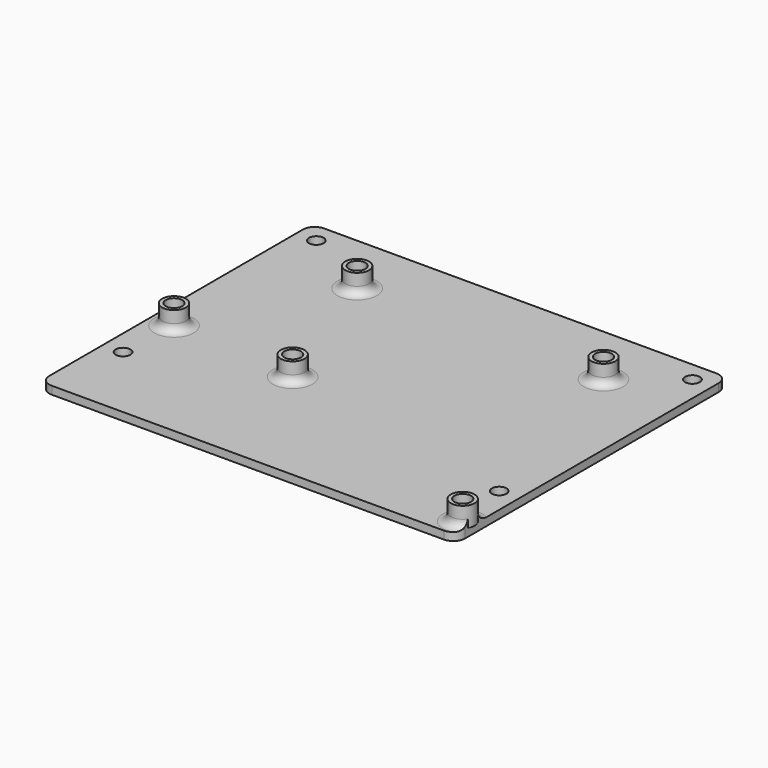
from build123d import *

# Parameters (mm, degrees)
SKETCH_W        = 105
SKETCH_H        = 86
SKETCH_R        = 1.85
PAD_DEPTH       = 2
SKETCH002_R     = 1.6
POCKET_DEPTH    = 5
SKETCH003_R     = 3
PAD001_DEPTH    = 5
SKETCH004_R     = 2.1
POCKET001_DEPTH = 5
FILLET_R        = 2
FILLET001_R     = 3


with BuildPart() as part:
    # Sketch → Pad (new body)
    with BuildSketch(Plane.XY):
        with Locations((52.5, -43)):
            Rectangle(SKETCH_W, SKETCH_H)
        with Locations((100, -5)):
            Circle(SKETCH_R, mode=Mode.SUBTRACT)
        with Locations((5, -5)):
            Circle(SKETCH_R, mode=Mode.SUBTRACT)
        with Locations((5, -66)):
            Circle(SKETCH_R, mode=Mode.SUBTRACT)
        with Locations((100, -66)):
            Circle(SKETCH_R, mode=Mode.SUBTRACT)
    extrude(amount=PAD_DEPTH)

    # Sketch002 (on Face10 of Pad) → Pocket (cut)
    with BuildSketch(Plane.XY.offset(2)):
        with Locations((24.04067, -15.902179)):
            Circle(SKETCH002_R)
        with Locations((86.248482, -15.904631)):
            Circle(SKETCH002_R)
        with Locations((37.731285, -53.383301)):
            Circle(SKETCH002_R)
        with Locations((5.794, -50.898735)):
            Circle(SKETCH002_R)
        with Locations((102.450577, -80.591911)):
            Circle(SKETCH002_R)
    extrude(amount=-POCKET_DEPTH, mode=Mode.SUBTRACT)

    # Sketch003 (on Face5 of Pocket) → Pad001 (join)
    with BuildSketch(Plane.XY.offset(2)):
        with Locations((86.248482, -15.904631)):
            Circle(SKETCH003_R)
        with Locations((24.04067, -15.902179)):
            Circle(SKETCH003_R)
        with Locations((37.731285, -53.383301)):
            Circle(SKETCH003_R)
        with Locations((5.794, -50.898735)):
            Circle(SKETCH003_R)
        with Locations((102.450577, -80.591911)):
            Circle(SKETCH003_R)
    extrude(amount=PAD001_DEPTH)

    # Sketch004 (on Face27 of Pad001) → Pocket001 (cut)
    with BuildSketch(Plane.XY.offset(7)):
        with Locations((86.248482, -15.904631)):
            Circle(SKETCH004_R)
        with Locations((24.04067, -15.902179)):
            Circle(SKETCH004_R)
        with Locations((37.731285, -53.383301)):
            Circle(SKETCH004_R)
        with Locations((5.794, -50.898735)):
            Circle(SKETCH004_R)
        with Locations((102.450577, -80.591911)):
            Circle(SKETCH004_R)
    extrude(amount=-POCKET001_DEPTH, mode=Mode.SUBTRACT)

    # Fillet
    fillet_edges = [part.edges().sort_by_distance(p)[0] for p in [
        (99.450577, -80.591911, 2),
        (34.731285, -53.383301, 2),
        (2.794, -50.898735, 2),
        (21.04067, -15.902179, 2),
        (83.248482, -15.904631, 2),
    ]]
    fillet(fillet_edges, radius=FILLET_R)

    # Fillet001
    fillet001_edges = [part.edges().sort_by_distance(p)[0] for p in [
        (0, -86, 1),
        (0, 0, 1),
        (105, 0, 1),
        (105, -86, 1),
    ]]
    fillet(fillet001_edges, radius=FILLET001_R)


solid = part.part
